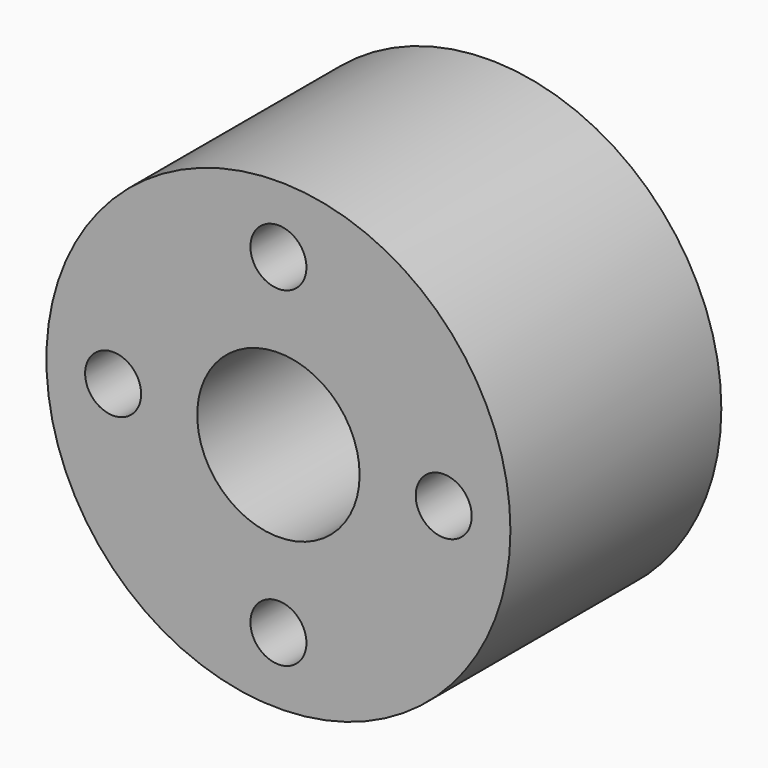
from build123d import *

# Parameters (mm, degrees)
F0_R     = 27.94
F0_R_2   = 3.37312
F0_R_3   = 9.779
F1_DEPTH = 31.75
F2_R     = 15.5575
F2_R_2   = 12.3825
F3_DEPTH = 1.778


with BuildPart() as f1:
    # F0 (on Front) → F1 (new body)
    with BuildSketch(Plane.XZ):
        Circle(F0_R)
        with Locations((0, -19.90725)):
            Circle(F0_R_2, mode=Mode.SUBTRACT)
        with Locations((-19.90725, 0)):
            Circle(F0_R_2, mode=Mode.SUBTRACT)
        Circle(F0_R_3, mode=Mode.SUBTRACT)
        with Locations((19.90725, 0)):
            Circle(F0_R_2, mode=Mode.SUBTRACT)
        with Locations((0, 19.90725)):
            Circle(F0_R_2, mode=Mode.SUBTRACT)
    extrude(amount=F1_DEPTH)

    # F2 (on Front) → F3 (cut)
    with BuildSketch(Plane.XZ):
        Circle(F2_R)
        Circle(F2_R_2, mode=Mode.SUBTRACT)
    extrude(amount=F3_DEPTH, mode=Mode.SUBTRACT)


solid = f1.part
